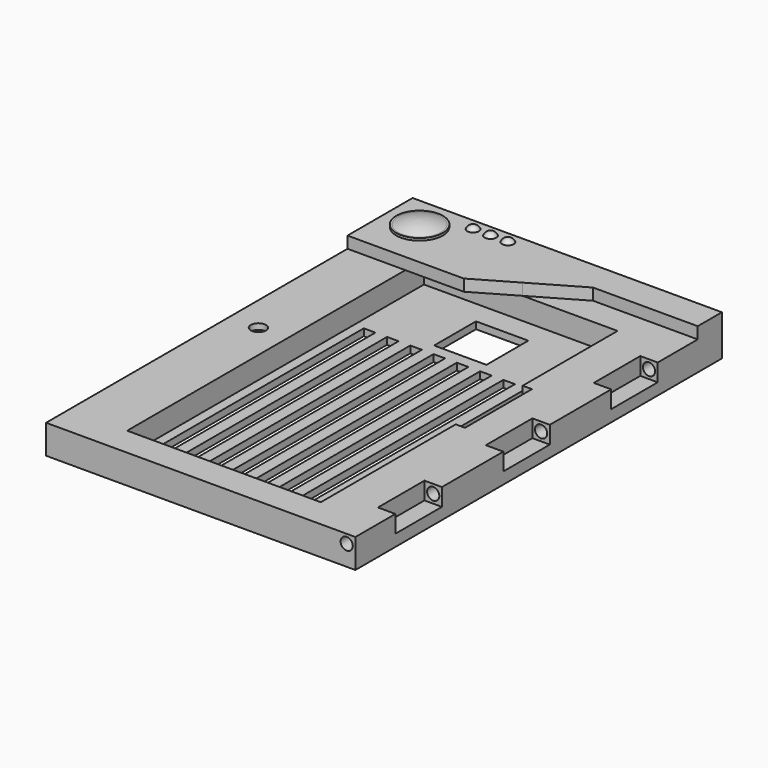
from build123d import *

# Parameters (mm, degrees)
F0_W           = 133
F0_H           = 197
F0_W_2         = 83.25
F0_H_2         = 159.5
F0_W_3         = 5
F0_H_3         = 117
F0_W_4         = 22.5
F0_H_4         = 22.5
F1_DEPTH       = 3
F2_DEPTH       = 12.5
F3_R           = 3.25
F4_DEPTH       = 2.5
F5_DEPTH       = 5
F6_R           = 10
F7_DEPTH       = 1
F16_W          = 7.5
F16_H          = 25
F17_DEPTH      = 7.5
F18_R          = 2.625
F19_DEPTH      = 162.501
F19_DEPTH_BACK = 10
F16_W_2        = 4
F16_H_2        = 36
F20_DEPTH      = 4


with BuildPart() as f1:
    # F0 (on Top) → F1 (new body)
    with BuildSketch(Plane.XY):
        with Locations((-11.25, -8.4886514246)):
            Rectangle(F0_W, F0_H)
        with Locations((-11.25, -14.7386514246)):
            Rectangle(F0_W_2, F0_H_2, mode=Mode.SUBTRACT)
        with Locations((-11.25, -14.7386514246)):
            Rectangle(F0_W_2, F0_H_2)
        with Locations((-46.25, -30.9886514246)):
            Rectangle(F0_W_3, F0_H_3, mode=Mode.SUBTRACT)
        with Locations((-36.25, -30.9886514246)):
            Rectangle(F0_W_3, F0_H_3, mode=Mode.SUBTRACT)
        with Locations((-26.25, -30.9886514246)):
            Rectangle(F0_W_3, F0_H_3, mode=Mode.SUBTRACT)
        with Locations((-16.25, -30.9886514246)):
            Rectangle(F0_W_3, F0_H_3, mode=Mode.SUBTRACT)
        with Locations((-6.25, -30.9886514246)):
            Rectangle(F0_W_3, F0_H_3, mode=Mode.SUBTRACT)
        with Locations((3.75, -30.9886514246)):
            Rectangle(F0_W_3, F0_H_3, mode=Mode.SUBTRACT)
        with Locations((13.75, -30.9886514246)):
            Rectangle(F0_W_3, F0_H_3, mode=Mode.SUBTRACT)
        with Locations((23.75, -30.9886514246)):
            Rectangle(F0_W_3, F0_H_3, mode=Mode.SUBTRACT)
        with Locations((-11.25, 43.7613485754)):
            Rectangle(F0_W_4, F0_H_4, mode=Mode.SUBTRACT)
    extrude(amount=F1_DEPTH)

    # F0 (on Top) → F2 (join)
    with BuildSketch(Plane.XY):
        with Locations((-11.25, -8.4886514246)):
            Rectangle(F0_W, F0_H)
        with Locations((-11.25, -14.7386514246)):
            Rectangle(F0_W_2, F0_H_2, mode=Mode.SUBTRACT)
    extrude(amount=F2_DEPTH)

    # F3 (on face) → F4 (cut)
    with BuildSketch(Plane.XY.offset(12.5)):
        with Locations((-65.25, -8.4886514246)):
            Circle(F3_R)
        Polygon((-77.75, 90.0113485754), (-77.75, 55.0113485754), (-52.875, 55.0113485754), (-52.875, 65.0113485754), (-10.4772727273, 65.0113485754), (10.25, 77.0113485754), (55.25, 77.0113485754), (55.25, 90.0113485754), align=None)
    extrude(amount=-F4_DEPTH, mode=Mode.SUBTRACT)

    # F3 (on face) + F4_face (on face) → F5 (join)
    with BuildSketch(Plane.XY.offset(12.5)):
        Polygon((-77.75, 90.0113485754), (-77.75, 55.0113485754), (-52.875, 55.0113485754), (-52.875, 65.0113485754), (-10.4772727273, 65.0113485754), (10.25, 77.0113485754), (55.25, 77.0113485754), (55.25, 90.0113485754), align=None)
        Polygon((-52.875, 65.0113485754), (-52.875, 55.0113485754), (-27.75, 55.0113485754), (-10.4772727273, 65.0113485754), align=None)
    with BuildSketch(Plane(origin=(-24.6626652531, 77.5848918874, 10), x_dir=(1, 0, 0), z_dir=(0, 0, 1))):
        Polygon((-53.0873347469, 12.426456688), (-53.0873347469, -22.573543312), (-28.2123347469, -22.573543312), (-28.2123347469, -12.573543312), (14.1853925258, -12.573543312), (34.9126652531, -0.573543312), (79.9126652531, -0.573543312), (79.9126652531, 12.426456688), align=None)
    extrude(amount=F5_DEPTH)

    # F6 (on face) → F7 (join)
    with BuildSketch(Plane.XY.offset(17.5)):
        with Locations((-62.75, 75.0113485754)):
            Circle(F6_R)
    extrude(amount=F7_DEPTH)

    # F9 (on offset) → F10 (revolve)
    with BuildSketch(Plane.XZ.offset(-75.0113485754)):
        with BuildLine():
            ThreePointArc((-62.75, 20.5), (-67.445725321, 19.9403364768), (-71.95, 18.5))
            Line((-71.95, 18.5), (-62.75, 18.5))
            Line((-62.75, 18.5), (-62.75, 20.5))
        make_face()
    revolve(axis=Axis((-62.75, 75.0113485754, 19.5), (0, 0, 1)))

    # F12 (on offset) → F13 (revolve)
    with BuildSketch(Plane.XZ.offset(-85.0113485754)):
        with BuildLine():
            ThreePointArc((-47.75, 19.1043560763), (-49.2352574204, 18.6687696943), (-50.25, 17.5))
            Line((-50.25, 17.5), (-47.75, 17.5))
            Line((-47.75, 17.5), (-47.75, 19.1043560763))
        make_face()
    revolve(axis=Axis((-47.75, 85.0113485754, 18.3021780381), (0, 0, 1)))

    # F12 (on offset) → F14 (revolve)
    with BuildSketch(Plane.XZ.offset(-85.0113485754)):
        with BuildLine():
            ThreePointArc((-40.25, 19.1043560763), (-41.7352574204, 18.6687696943), (-42.75, 17.5))
            Line((-42.75, 17.5), (-40.25, 17.5))
            Line((-40.25, 17.5), (-40.25, 19.1043560763))
        make_face()
    revolve(axis=Axis((-40.25, 85.0113485754, 18.3021780381), (0, 0, 1)))

    # F12 (on offset) → F15 (revolve)
    with BuildSketch(Plane.XZ.offset(-85.0113485754)):
        with BuildLine():
            ThreePointArc((-32.75, 19.1043560763), (-34.2352574204, 18.6687696943), (-35.25, 17.5))
            Line((-35.25, 17.5), (-32.75, 17.5))
            Line((-32.75, 17.5), (-32.75, 19.1043560763))
        make_face()
    revolve(axis=Axis((-32.75, 85.0113485754, 18.3021780381), (0, 0, 1)))

    # F16 (on face) → F17 (cut)
    with BuildSketch(Plane.XY.offset(12.5)):
        with Locations((51.5, 43.0113485754)):
            Rectangle(F16_W, F16_H)
        with Locations((51.5, -14.9886514246)):
            Rectangle(F16_W, F16_H)
        with Locations((51.5, -72.9886514246)):
            Rectangle(F16_W, F16_H)
    extrude(amount=-F17_DEPTH, mode=Mode.SUBTRACT)

    # F18 (on face) → F19 (cut, two sides)
    with BuildSketch(Plane.XZ.offset(-55.5113485754)) as f19_sk:
        with Locations((51.5, 8.75)):
            Circle(F18_R)
    extrude(amount=F19_DEPTH, mode=Mode.SUBTRACT)
    extrude(f19_sk.sketch, amount=-F19_DEPTH_BACK, mode=Mode.SUBTRACT)

    # F16 (on face) → F20 (cut)
    with BuildSketch(Plane.XY.offset(12.5)):
        with Locations((32.375, -3.9886514246)):
            Rectangle(F16_W_2, F16_H_2)
    extrude(amount=-F20_DEPTH, mode=Mode.SUBTRACT)


solid = f1.part
